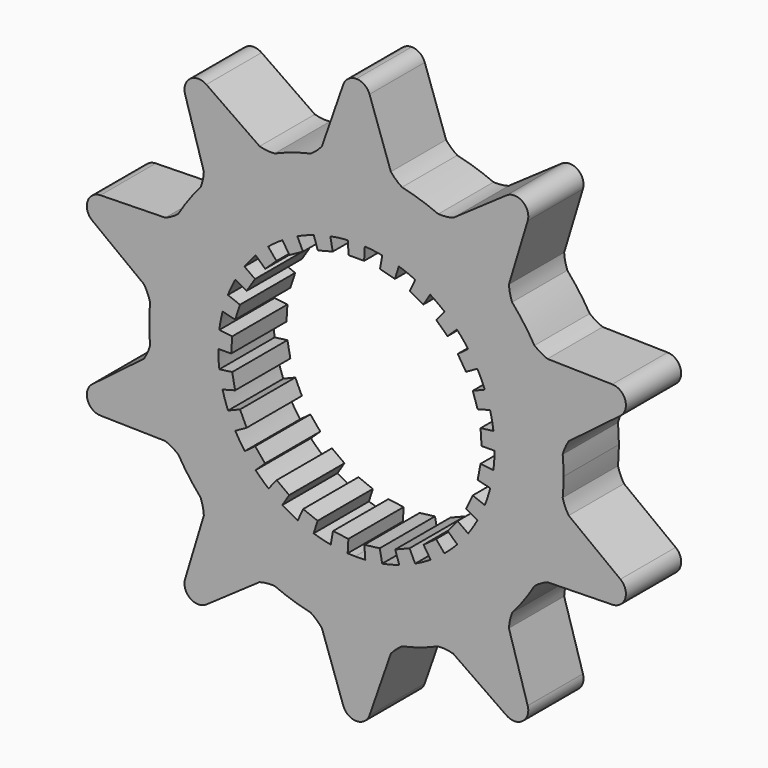
from build123d import *

# Parameters (mm, degrees)
F1_DEPTH = 6.35


with BuildPart() as f1:
    # F0 (on Front) → F1 (new body)
    with BuildSketch(Plane.XZ):
        with BuildLine():
            Line((10.091306, -5.534615), (11.139528, -6.099255))
            ThreePointArc((11.139528, -6.099255), (10.727783, -6.797402), (10.272342, -7.467863))
            Line((10.272342, -7.467863), (9.304538, -6.774362))
            Line((9.304538, -6.774362), (8.397867, -7.870341))
            Line((8.397867, -7.870341), (9.272737, -8.677924))
            ThreePointArc((9.272737, -8.677924), (8.700305, -9.25174), (8.092436, -9.787874))
            Line((8.092436, -9.787874), (7.327504, -8.875478))
            Line((7.327504, -8.875478), (6.176758, -9.711544))
            Line((6.176758, -9.711544), (6.823305, -10.711326))
            ThreePointArc((6.823305, -10.711326), (6.126154, -11.124758), (5.404052, -11.492877))
            Line((5.404052, -11.492877), (4.890055, -10.418915))
            Line((4.890055, -10.418915), (3.567541, -10.942535))
            Line((3.567541, -10.942535), (3.945139, -12.071697))
            ThreePointArc((3.945139, -12.071697), (3.167075, -12.298766), (2.376111, -12.47574))
            Line((2.376111, -12.47574), (2.145346, -11.307693))
            Line((2.145346, -11.307693), (0.734162, -11.485967))
            Line((0.734162, -11.485967), (0.819087, -12.673559))
            ThreePointArc((0.819087, -12.673559), (0.356743, -12.694989), (-0.106075, -12.699557))
            Line((-0.106075, -12.699557), (-0.123483, -19.0496))
            ThreePointArc((-0.123483, -19.0496), (2.049454, -18.939436), (4.195658, -18.582221))
            ThreePointArc((4.195658, -18.582221), (5.886774, -18.117627), (7.527997, -17.499479))
            ThreePointArc((7.527997, -17.499479), (11.197309, -15.411774), (14.316714, -12.567187))
            ThreePointArc((14.316714, -12.567187), (15.411774, -11.197309), (16.376213, -9.73253))
            ThreePointArc((16.376213, -9.73253), (18.117627, -5.886774), (18.969272, -1.751915))
            ThreePointArc((18.969272, -1.751915), (19.029807, -0.876887), (19.05, 0))
            ThreePointArc((19.05, 0), (19.029807, 0.876887), (18.969272, 1.751915))
            ThreePointArc((18.969272, 1.751915), (18.117627, 5.886774), (16.376213, 9.73253))
            ThreePointArc((16.376213, 9.73253), (15.411774, 11.197309), (14.316714, 12.567187))
            ThreePointArc((14.316714, 12.567187), (11.592378, 15.116854), (8.423299, 17.08656))
            ThreePointArc((8.423299, 17.08656), (7.97832, 17.298812), (7.527997, 17.499479))
            ThreePointArc((7.527997, 17.499479), (5.886774, 18.117627), (4.195658, 18.582221))
            ThreePointArc((4.195658, 18.582221), (2.101367, 18.933746), (-0.019036, 19.04999))
            Line((-0.019036, 19.04999), (-0.039768, 11.487411))
            Line((-0.039768, 11.487411), (0.7112, 11.487411))
            Line((0.7112, 11.487411), (0.77579, 12.676283))
            ThreePointArc((0.77579, 12.676283), (1.582806, 12.600981), (2.383374, 12.474355))
            Line((2.383374, 12.474355), (2.167947, 11.303381))
            Line((2.167947, 11.303381), (3.545659, 10.949645))
            Line((3.545659, 10.949645), (3.903881, 12.085103))
            ThreePointArc((3.903881, 12.085103), (4.666815, 11.81147), (5.410742, 11.489729))
            Line((5.410742, 11.489729), (4.910873, 10.409118))
            Line((4.910873, 10.409118), (6.157332, 9.723872))
            Line((6.157332, 9.723872), (6.786676, 10.734572))
            ThreePointArc((6.786676, 10.734572), (7.457592, 10.279802), (8.098133, 9.783161))
            Line((8.098133, 9.783161), (7.345232, 8.860812))
            Line((7.345232, 8.860812), (8.382117, 7.887112))
            Line((8.382117, 7.887112), (9.24304, 8.709548))
            ThreePointArc((9.24304, 8.709548), (9.779781, 8.102215), (10.276688, 7.461882))
            Line((10.276688, 7.461882), (9.318062, 6.755749))
            Line((9.318062, 6.755749), (10.080222, 5.554777))
            Line((10.080222, 5.554777), (11.118629, 6.137271))
            ThreePointArc((11.118629, 6.137271), (11.48747, 5.415536), (11.809522, 4.671744))
            Line((11.809522, 4.671744), (10.705404, 4.226197))
            Line((10.705404, 4.226197), (11.14495, 2.873414))
            Line((11.14495, 2.873414), (12.295594, 3.179367))
            ThreePointArc((12.295594, 3.179367), (12.473359, 2.38858), (12.60032, 1.588064))
            Line((12.60032, 1.588064), (11.420087, 1.431097))
            Line((11.420087, 1.431097), (11.5094, 0.011504))
            Line((11.5094, 0.011504), (12.699981, 0.021691))
            ThreePointArc((12.699981, 0.021691), (12.675501, -0.78846), (12.599393, -1.5954))
            Line((12.599393, -1.5954), (11.417203, -1.453924))
            Line((11.417203, -1.453924), (11.150672, -2.851129))
            Line((11.150672, -2.851129), (12.306383, -3.137347))
            ThreePointArc((12.306383, -3.137347), (12.081195, -3.915958), (11.8068, -4.678619))
            Line((11.8068, -4.678619), (10.696935, -4.247589))
            Line((10.696935, -4.247589), (10.091306, -5.534615))
        make_face()
        with BuildLine():
            Line((-0.123483, -19.0496), (-0.106075, -12.699557))
            ThreePointArc((-0.106075, -12.699557), (-0.453772, -12.691891), (-0.801129, -12.674707))
            Line((-0.801129, -12.674707), (-0.734162, -11.485967))
            Line((-0.734162, -11.485967), (-2.145346, -11.307693))
            Line((-2.145346, -11.307693), (-2.358432, -12.479094))
            ThreePointArc((-2.358432, -12.479094), (-3.149646, -12.303241), (-3.928032, -12.077275))
            Line((-3.928032, -12.077275), (-3.567541, -10.942535))
            Line((-3.567541, -10.942535), (-4.890055, -10.418915))
            Line((-4.890055, -10.418915), (-5.387763, -11.500522))
            ThreePointArc((-5.387763, -11.500522), (-6.110386, -11.133426), (-6.808121, -10.720983))
            Line((-6.808121, -10.720983), (-6.176758, -9.711544))
            Line((-6.176758, -9.711544), (-7.327504, -8.875478))
            Line((-7.327504, -8.875478), (-8.07856, -9.79933))
            ThreePointArc((-8.07856, -9.79933), (-8.687187, -9.264058), (-9.260432, -8.691053))
            Line((-9.260432, -8.691053), (-8.397867, -7.870341))
            Line((-8.397867, -7.870341), (-9.304538, -6.774362))
            Line((-9.304538, -6.774362), (-10.261751, -7.48241))
            ThreePointArc((-10.261751, -7.48241), (-10.718141, -6.812595), (-11.130875, -6.115032))
            Line((-11.130875, -6.115032), (-10.091306, -5.534615))
            Line((-10.091306, -5.534615), (-10.696935, -4.247589))
            Line((-10.696935, -4.247589), (-11.800159, -4.695343))
            ThreePointArc((-11.800159, -4.695343), (-12.075634, -3.933072), (-12.301925, -3.154781))
            Line((-12.301925, -3.154781), (-11.150672, -2.851129))
            Line((-11.150672, -2.851129), (-11.417203, -1.453924))
            Line((-11.417203, -1.453924), (-12.59712, -1.61325))
            ThreePointArc((-12.59712, -1.61325), (-12.674371, -0.806419), (-12.699999, 0.003697))
            Line((-12.699999, 0.003697), (-11.5094, 0.011504))
            Line((-11.5094, 0.011504), (-11.420087, 1.431097))
            Line((-11.420087, 1.431097), (-12.602557, 1.57021))
            ThreePointArc((-12.602557, 1.57021), (-12.476731, 2.370904), (-12.300086, 3.161942))
            Line((-12.300086, 3.161942), (-11.14495, 2.873414))
            Line((-11.14495, 2.873414), (-10.705404, 4.226197))
            Line((-10.705404, 4.226197), (-11.816129, 4.655007))
            ThreePointArc((-11.816129, 4.655007), (-11.495131, 5.399255), (-11.127313, 6.121511))
            Line((-11.127313, 6.121511), (-10.080222, 5.554777))
            Line((-10.080222, 5.554777), (-9.318062, 6.755749))
            Line((-9.318062, 6.755749), (-10.28725, 7.447313))
            ThreePointArc((-10.28725, 7.447313), (-9.791251, 8.08835), (-9.255371, 8.696443))
            Line((-9.255371, 8.696443), (-8.382117, 7.887112))
            Line((-8.382117, 7.887112), (-7.345232, 8.860812))
            Line((-7.345232, 8.860812), (-8.111986, 9.771678))
            ThreePointArc((-8.111986, 9.771678), (-7.47215, 10.269225), (-6.801879, 10.724945))
            Line((-6.801879, 10.724945), (-6.157332, 9.723872))
            Line((-6.157332, 9.723872), (-4.910873, 10.409118))
            Line((-4.910873, 10.409118), (-5.427016, 11.482051))
            ThreePointArc((-5.427016, 11.482051), (-4.683546, 11.804846), (-3.921, 12.07956))
            Line((-3.921, 12.07956), (-3.545659, 10.949645))
            Line((-3.545659, 10.949645), (-2.167947, 11.303381))
            Line((-2.167947, 11.303381), (-2.401046, 12.470965))
            ThreePointArc((-2.401046, 12.470965), (-1.600658, 12.598726), (-0.79375, 12.675171))
            Line((-0.79375, 12.675171), (-0.7112, 11.487411))
            Line((-0.7112, 11.487411), (-0.039768, 11.487411))
            Line((-0.039768, 11.487411), (-0.019036, 19.04999))
            ThreePointArc((-0.019036, 19.04999), (-2.120286, 18.931637), (-4.195658, 18.582221))
            ThreePointArc((-4.195658, 18.582221), (-5.886774, 18.117627), (-7.527997, 17.499479))
            ThreePointArc((-7.527997, 17.499479), (-11.197309, 15.411774), (-14.316714, 12.567187))
            ThreePointArc((-14.316714, 12.567187), (-15.411774, 11.197309), (-16.376213, 9.73253))
            ThreePointArc((-16.376213, 9.73253), (-18.117627, 5.886774), (-18.969272, 1.751915))
            ThreePointArc((-18.969272, 1.751915), (-19.05, 0), (-18.969272, -1.751915))
            ThreePointArc((-18.969272, -1.751915), (-18.117627, -5.886774), (-16.376213, -9.73253))
            ThreePointArc((-16.376213, -9.73253), (-15.411774, -11.197309), (-14.316714, -12.567187))
            ThreePointArc((-14.316714, -12.567187), (-11.197309, -15.411774), (-7.527997, -17.499479))
            ThreePointArc((-7.527997, -17.499479), (-5.886774, -18.117627), (-4.195658, -18.582221))
            ThreePointArc((-4.195658, -18.582221), (-2.172177, -18.925753), (-0.123483, -19.0496))
        make_face()
        with BuildLine():
            Line((-0.142498, -25.985704), (-0.123483, -19.0496))
            ThreePointArc((-0.123483, -19.0496), (-2.172177, -18.925753), (-4.195658, -18.582221))
            ThreePointArc((-4.195658, -18.582221), (-3.646134, -19.000826), (-3.168603, -19.499996))
            Line((-3.168603, -19.499996), (-1.208754, -25.134324))
            ThreePointArc((-1.208754, -25.134324), (-0.79855, -25.713963), (-0.142498, -25.985704))
        make_face()
        with BuildLine():
            ThreePointArc((4.195658, -18.582221), (2.049454, -18.939436), (-0.123483, -19.0496))
            Line((-0.123483, -19.0496), (-0.142498, -25.985704))
            ThreePointArc((-0.142498, -25.985704), (0.68223, -25.796658), (1.208754, -25.134324))
            Line((1.208754, -25.134324), (3.168603, -19.499996))
            ThreePointArc((3.168603, -19.499996), (3.646134, -19.000826), (4.195658, -18.582221))
        make_face()
        with BuildLine():
            Line((0, 25.993662), (-0.019036, 19.04999))
            ThreePointArc((-0.019036, 19.04999), (2.101367, 18.933746), (4.195658, 18.582221))
            ThreePointArc((4.195658, 18.582221), (3.646134, 19.000826), (3.168603, 19.499996))
            Line((3.168603, 19.499996), (1.208754, 25.134324))
            ThreePointArc((1.208754, 25.134324), (0.741544, 25.756933), (0, 25.993662))
        make_face()
        with BuildLine():
            ThreePointArc((-4.195658, 18.582221), (-2.120286, 18.931637), (-0.019036, 19.04999))
            Line((-0.019036, 19.04999), (0, 25.993662))
            ThreePointArc((0, 25.993662), (-0.741544, 25.756933), (-1.208754, 25.134324))
            Line((-1.208754, 25.134324), (-3.168603, 19.499996))
            ThreePointArc((-3.168603, 19.499996), (-3.646134, 19.000826), (-4.195658, 18.582221))
        make_face()
        with BuildLine():
            ThreePointArc((-8.898356, -17.638286), (-8.218621, -17.515135), (-7.527997, -17.499479))
            ThreePointArc((-7.527997, -17.499479), (-11.197309, -15.411774), (-14.316714, -12.567187))
            ThreePointArc((-14.316714, -12.567187), (-14.118189, -13.228847), (-14.025264, -13.91337))
            Line((-14.025264, -13.91337), (-15.751487, -19.623608))
            ThreePointArc((-15.751487, -19.623608), (-15.278691, -21.029314), (-13.795683, -21.044583))
            Line((-13.795683, -21.044583), (-8.898356, -17.638286))
        make_face()
        with BuildLine():
            ThreePointArc((14.316714, -12.567187), (11.197309, -15.411774), (7.527997, -17.499479))
            ThreePointArc((7.527997, -17.499479), (8.218621, -17.515135), (8.898356, -17.638286))
            Line((8.898356, -17.638286), (13.795683, -21.044583))
            ThreePointArc((13.795683, -21.044583), (15.278691, -21.029314), (15.751487, -19.623608))
            Line((15.751487, -19.623608), (14.025264, -13.91337))
            ThreePointArc((14.025264, -13.91337), (14.118189, -13.228847), (14.316714, -12.567187))
        make_face()
        with BuildLine():
            ThreePointArc((8.898356, 17.638286), (8.218621, 17.515135), (7.527997, 17.499479))
            ThreePointArc((7.527997, 17.499479), (7.97832, 17.298812), (8.423299, 17.08656))
            ThreePointArc((8.423299, 17.08656), (11.592378, 15.116854), (14.316714, 12.567187))
            ThreePointArc((14.316714, 12.567187), (14.118189, 13.228847), (14.025264, 13.91337))
            Line((14.025264, 13.91337), (15.751487, 19.623608))
            ThreePointArc((15.751487, 19.623608), (15.278691, 21.029314), (13.795683, 21.044583))
            Line((13.795683, 21.044583), (8.898356, 17.638286))
        make_face()
        with BuildLine():
            ThreePointArc((-14.316714, 12.567187), (-11.197309, 15.411774), (-7.527997, 17.499479))
            ThreePointArc((-7.527997, 17.499479), (-8.218621, 17.515135), (-8.898356, 17.638286))
            Line((-8.898356, 17.638286), (-13.795683, 21.044583))
            ThreePointArc((-13.795683, 21.044583), (-15.278691, 21.029314), (-15.751487, 19.623608))
            Line((-15.751487, 19.623608), (-14.025264, 13.91337))
            ThreePointArc((-14.025264, 13.91337), (-14.118189, 13.228847), (-14.316714, 12.567187))
        make_face()
        with BuildLine():
            ThreePointArc((-17.566446, -9.039351), (-16.944142, -9.339257), (-16.376213, -9.73253))
            ThreePointArc((-16.376213, -9.73253), (-18.117627, -5.886774), (-18.969272, -1.751915))
            ThreePointArc((-18.969272, -1.751915), (-19.197577, -2.403899), (-19.52475, -3.01231))
            Line((-19.52475, -3.01231), (-24.277688, -6.61734))
            ThreePointArc((-24.277688, -6.61734), (-24.721442, -8.032483), (-23.530637, -8.916527))
            Line((-23.530637, -8.916527), (-17.566446, -9.039351))
        make_face()
        with BuildLine():
            ThreePointArc((18.969272, -1.751915), (18.117627, -5.886774), (16.376213, -9.73253))
            ThreePointArc((16.376213, -9.73253), (16.944142, -9.339257), (17.566446, -9.039351))
            Line((17.566446, -9.039351), (23.530637, -8.916527))
            ThreePointArc((23.530637, -8.916527), (24.721442, -8.032483), (24.277688, -6.61734))
            Line((24.277688, -6.61734), (19.52475, -3.01231))
            ThreePointArc((19.52475, -3.01231), (19.197577, -2.403899), (18.969272, -1.751915))
        make_face()
        with BuildLine():
            ThreePointArc((-18.969272, 1.751915), (-18.117627, 5.886774), (-16.376213, 9.73253))
            ThreePointArc((-16.376213, 9.73253), (-16.944142, 9.339257), (-17.566446, 9.039351))
            Line((-17.566446, 9.039351), (-23.530637, 8.916527))
            ThreePointArc((-23.530637, 8.916527), (-24.721442, 8.032483), (-24.277688, 6.61734))
            Line((-24.277688, 6.61734), (-19.52475, 3.01231))
            ThreePointArc((-19.52475, 3.01231), (-19.197577, 2.403899), (-18.969272, 1.751915))
        make_face()
        with BuildLine():
            ThreePointArc((17.566446, 9.039351), (16.944142, 9.339257), (16.376213, 9.73253))
            ThreePointArc((16.376213, 9.73253), (18.117627, 5.886774), (18.969272, 1.751915))
            ThreePointArc((18.969272, 1.751915), (19.197577, 2.403899), (19.52475, 3.01231))
            Line((19.52475, 3.01231), (24.277688, 6.61734))
            ThreePointArc((24.277688, 6.61734), (24.721442, 8.032483), (23.530637, 8.916527))
            Line((23.530637, 8.916527), (17.566446, 9.039351))
        make_face()
    extrude(amount=F1_DEPTH)


solid = f1.part
